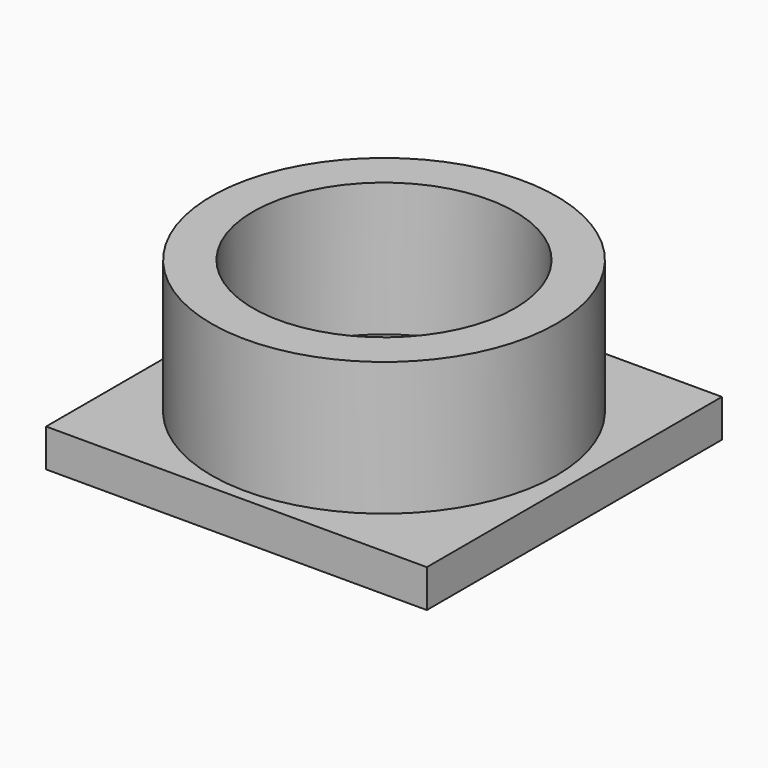
from build123d import *

# Parameters (mm, degrees)
SKETCH_W      = 6.4
SKETCH_H      = 6.2
PAD_DEPTH     = 0.635
SKETCH001_R   = 2.9
SKETCH001_R_2 = 2.2
PAD001_DEPTH  = 2.245


with BuildPart() as pad:
    # Sketch → Pad (new body)
    with BuildSketch(Plane.XY):
        Rectangle(SKETCH_W, SKETCH_H)
    extrude(amount=PAD_DEPTH)


with BuildPart() as pad001:
    # Sketch001 → Pad001 (new body)
    with BuildSketch(Plane.XY.offset(0.635)):
        Circle(SKETCH001_R)
        Circle(SKETCH001_R_2, mode=Mode.SUBTRACT)
    extrude(amount=PAD001_DEPTH)


solid = Compound([pad.part, pad001.part])
